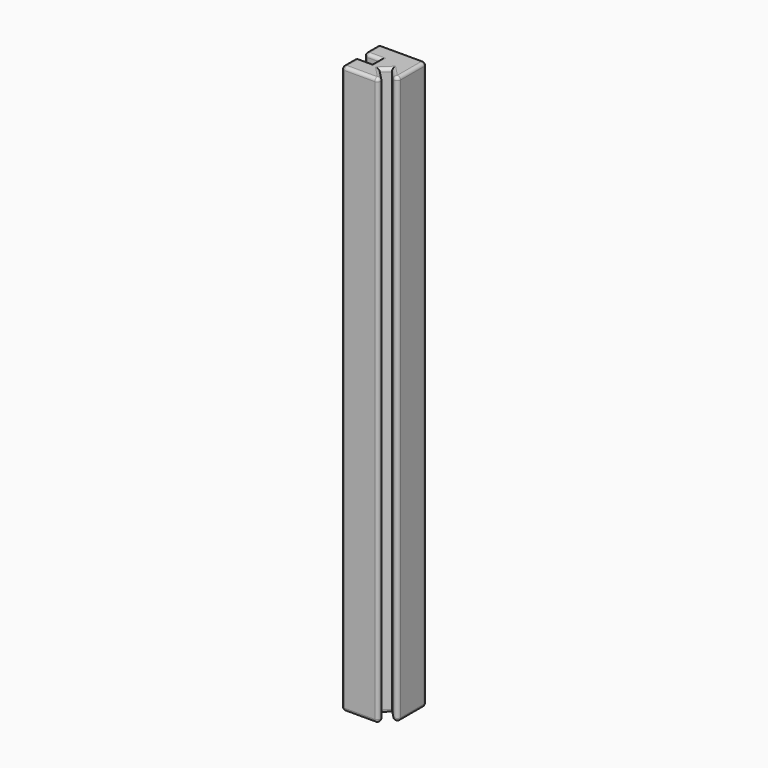
from build123d import *

# Parameters (mm, degrees)
F1_DEPTH = 180
F2_R     = 1


with BuildPart() as f1:
    # F0 (on Top) → F1 (new body)
    with BuildSketch(Plane.XY):
        Polygon((7.5, 7.5), (-7.5, 7.5), (-7.5, 1.5), (-2.5, 1.5), (-2.5, -1.5), (-7.5, -1.5), (-7.5, -7.5), (5.425162, -7.5), (0.888359, -2.752769), (3.057203, -0.680062), (7.5, -5.328926), align=None)
    extrude(amount=F1_DEPTH)

    # F2
    f2_edges = [f1.edges().sort_by_distance(p)[0] for p in [
        (-5, -1.5, 180),
        (-2.5, 0, 180),
        (-5, 1.5, 180),
        (5.278601, -3.004494, 180),
        (1.972781, -1.716416, 180),
        (3.15676, -5.126385, 180),
        (-1.037419, -7.5, 180),
        (-7.5, -4.5, 180),
        (-7.5, 4.5, 180),
        (0, 7.5, 180),
        (7.5, 1.085537, 180),
        (-7.5, -7.5, 90),
        (-7.5, -1.5, 90),
        (-7.5, 1.5, 90),
        (-7.5, 7.5, 90),
        (5.425162, -7.5, 90),
        (7.5, -5.328926, 90),
        (7.5, 7.5, 90),
        (1.972781, -1.716416, 0),
        (5.278601, -3.004494, 0),
        (7.5, 1.085537, 0),
        (0, 7.5, 0),
        (-7.5, 4.5, 0),
        (-5, 1.5, 0),
        (-2.5, 0, 0),
        (-5, -1.5, 0),
        (-7.5, -4.5, 0),
        (-1.037419, -7.5, 0),
        (3.15676, -5.126385, 0),
    ]]
    fillet(f2_edges, radius=F2_R)


solid = f1.part
